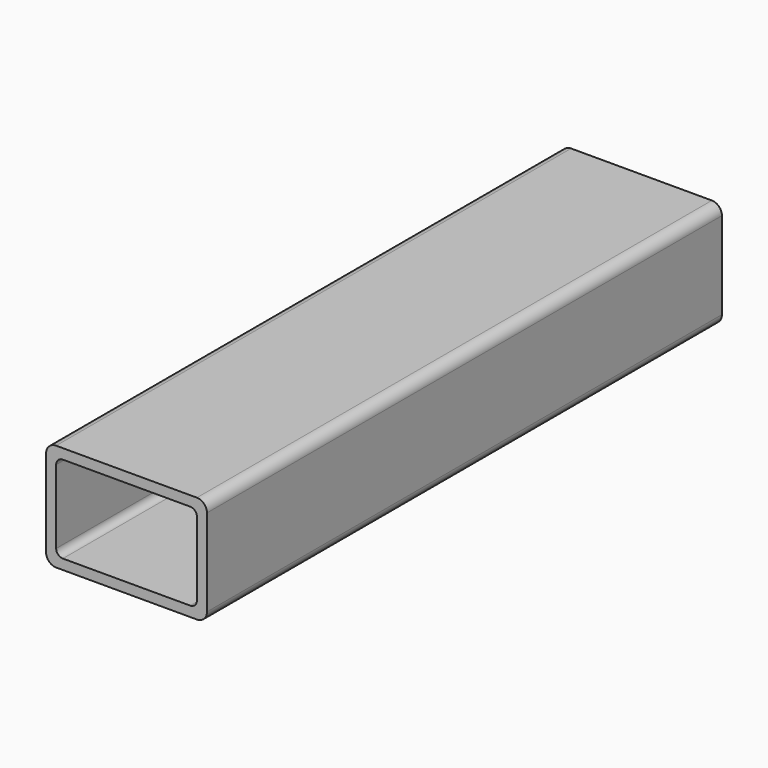
from build123d import *

# Parameters (mm, degrees)
F0_W     = 76.2
F0_H     = 50.8
F0_W_2   = 66.6496
F0_H_2   = 41.2496
F1_DEPTH = 304.8
F2_R     = 4.7752
F3_R     = 3.175


with BuildPart() as f1:
    # F0 (on Front) → F1 (new body)
    with BuildSketch(Plane.XZ):
        Rectangle(F0_W, F0_H)
        Rectangle(F0_W_2, F0_H_2, mode=Mode.SUBTRACT)
    extrude(amount=F1_DEPTH)

    # F2
    f2_edges = [f1.edges().sort_by_distance(p)[0] for p in [
        (38.1, -152.4, -25.4),
        (-38.1, -152.4, -25.4),
        (-38.1, -152.4, 25.4),
        (38.1, -152.4, 25.4),
    ]]
    fillet(f2_edges, radius=F2_R)

    # F3
    f3_edges = [f1.edges().sort_by_distance(p)[0] for p in [
        (-33.3248, -152.4, 20.6248),
        (33.3248, -152.4, 20.6248),
        (-33.3248, -152.4, -20.6248),
        (33.3248, -152.4, -20.6248),
    ]]
    fillet(f3_edges, radius=F3_R)


solid = f1.part
